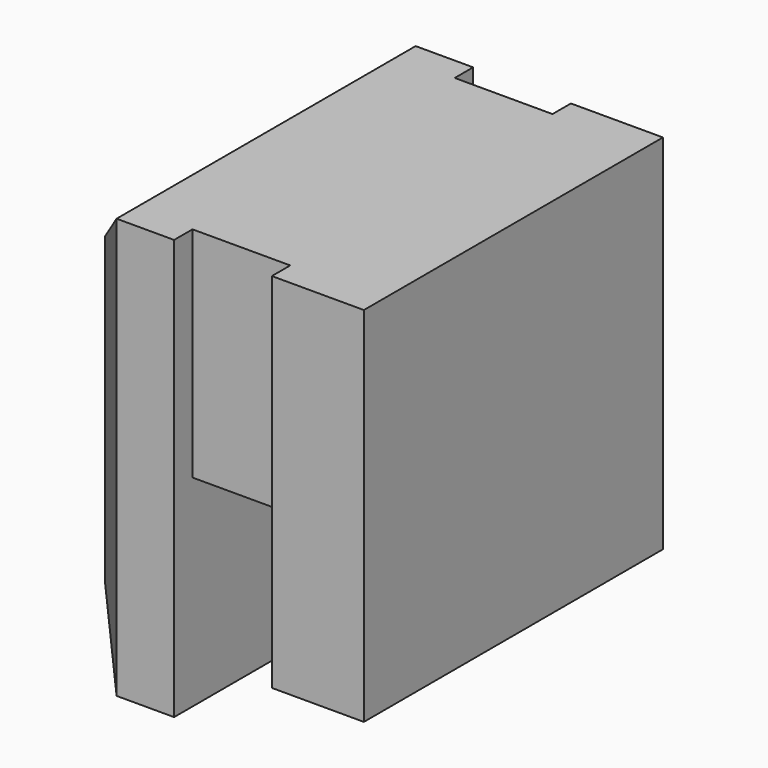
from build123d import *

# Parameters (mm, degrees)
SKETCH126_W  = 5.7
SKETCH126_H  = 3.8
PAD061_DEPTH = 1.7
SKETCH127_W  = 6.5
SKETCH127_H  = 6.305
PAD062_DEPTH = 1.6
SKETCH128_W  = 6.5
SKETCH128_H  = 7.305
PAD063_DEPTH = 2
CHAMFER_SIZE = 1


with BuildPart() as part:
    # Sketch126 → Pad061 (new body)
    with BuildSketch(Plane.YZ):
        with Locations((-7.89, 12.195)):
            Rectangle(SKETCH126_W, SKETCH126_H)
    extrude(amount=PAD061_DEPTH)

    # Sketch127 → Pad062 (join)
    with BuildSketch(Plane.YZ.offset(1.7)):
        with Locations((-7.89, 10.9425)):
            Rectangle(SKETCH127_W, SKETCH127_H)
    extrude(amount=PAD062_DEPTH)

    # Sketch128 → Pad063 (join)
    with BuildSketch(Plane.YZ):
        with Locations((-7.89, 10.4425)):
            Rectangle(SKETCH128_W, SKETCH128_H)
    extrude(amount=-PAD063_DEPTH)

    # Chamfer
    chamfer_edges = [part.edges().sort_by_distance(p)[0] for p in [
        (-2, -7.89, 14.095),
        (-2, -11.14, 10.4425),
        (-2, -7.89, 6.79),
        (-2, -4.64, 10.4425),
    ]]
    chamfer(chamfer_edges, length=CHAMFER_SIZE)


with BuildPart() as part_1:
    # Body017 placement: moved
    add(part.part.moved(Location((-29.5, 0, 0))))


solid = part_1.part
